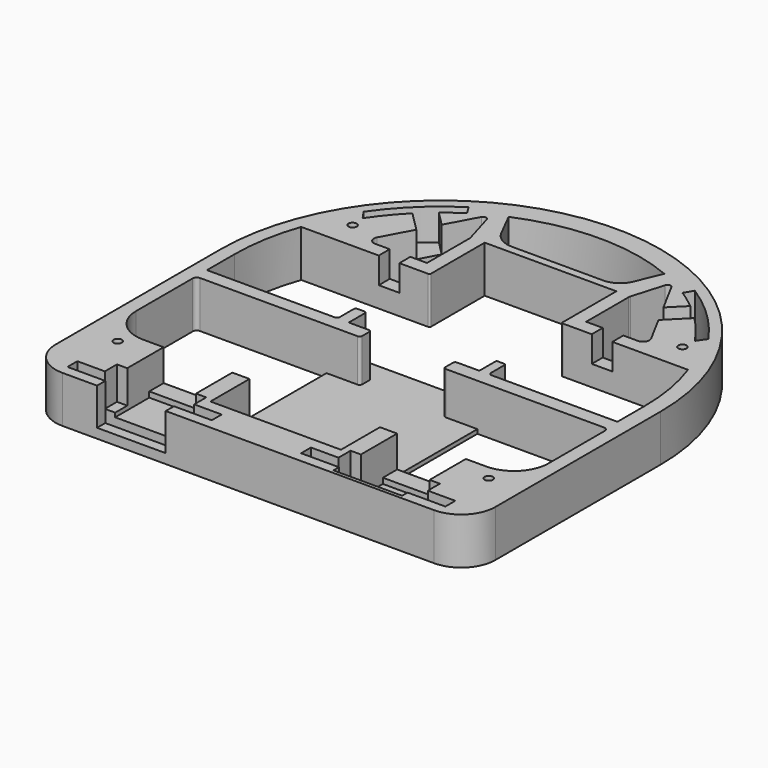
from build123d import *

# Parameters (mm, degrees)
BOX007_W               = 3
BOX007_H               = 6
BOX007_DEPTH           = 5
BOX008_W               = 3
BOX008_H               = 10
BOX008_DEPTH           = 10
BOX008_PLACEMENT_ANGLE = 45
BOX009_W               = 3
BOX009_H               = 10
BOX009_DEPTH           = 10
BOX009_PLACEMENT_ANGLE = 45
BOX006_W               = 3
BOX006_H               = 6
BOX006_DEPTH           = 5
BOX005_W               = 12
BOX005_H               = 0.5
BOX005_DEPTH           = 6.8
BOX004_W               = 22
BOX004_H               = 29
BOX004_DEPTH           = 0.6
BOX001_W               = 10
BOX001_H               = 15
BOX001_DEPTH           = 6
BOX002_W               = 10
BOX002_H               = 10
BOX002_DEPTH           = 6
BOX003_W               = 13
BOX003_H               = 4
BOX003_DEPTH           = 6
BOX_W                  = 21
BOX_H                  = 1.8
BOX_DEPTH              = 6.8
ARRAY_X_COUNT          = 2
ARRAY_X_PITCH          = 34
SKETCH001_R            = 0.6
EXTRUDE_DEPTH          = 6.8


with BuildPart() as wire02:
    # Box007 → Box007 (new body)
    with BuildSketch(Plane(origin=(14, 8, 3), x_dir=(1, 0, 0), z_dir=(0, 0, 1))):
        with Locations((1.5, 3)):
            Rectangle(BOX007_W, BOX007_H)
    extrude(amount=BOX007_DEPTH)


with BuildPart() as wire11:
    # Box008 → Box008 (new body)
    with BuildSketch(Plane.XY):
        with Locations((1.5, 5)):
            Rectangle(BOX008_W, BOX008_H)
    extrude(amount=BOX008_DEPTH)


with BuildPart() as wire11_1:
    # Box008 placement: moved
    add(wire11.part.moved(Location((-14, 14, 3))).rotate(Axis((-14, 14, 3), (0, 0, 1)), BOX008_PLACEMENT_ANGLE))


with BuildPart() as wire12:
    # Box009 → Box009 (new body)
    with BuildSketch(Plane.XY):
        with Locations((1.5, 5)):
            Rectangle(BOX009_W, BOX009_H)
    extrude(amount=BOX009_DEPTH)


with BuildPart() as wire12_1:
    # Box009 placement: moved
    add(wire12.part.moved(Location((12, 16, 3))).rotate(Axis((12, 16, 3), (0, 0, -1)), BOX009_PLACEMENT_ANGLE))


with BuildPart() as wires:
    # Box006 → Box006 (new body)
    with BuildSketch(Plane(origin=(-17, 8, 3), x_dir=(1, 0, 0), z_dir=(0, 0, 1))):
        with Locations((1.5, 3)):
            Rectangle(BOX006_W, BOX006_H)
    extrude(amount=BOX006_DEPTH)

    # Fusion004: union wire02, wire11, wire12
    add(wire02.part)
    add(wire11_1.part)
    add(wire12_1.part)


with BuildPart() as box005:
    # Box005 → Box005 (new body)
    with BuildSketch(Plane(origin=(11, -35, 0), x_dir=(1, 0, 0), z_dir=(0, 0, 1))):
        with Locations((6, 0.25)):
            Rectangle(BOX005_W, BOX005_H)
    extrude(amount=BOX005_DEPTH)


with BuildPart() as box004:
    # Box004 → Box004 (new body)
    with BuildSketch(Plane(origin=(-11, -31, 0), x_dir=(1, 0, 0), z_dir=(0, 0, 1))):
        with Locations((11, 14.5)):
            Rectangle(BOX004_W, BOX004_H)
    extrude(amount=BOX004_DEPTH)


with BuildPart() as obj1:
    # Box001 → Box001 (new body)
    with BuildSketch(Plane(origin=(-5, 0, 2.2), x_dir=(1, 0, 0), z_dir=(0, 0, 1))):
        with Locations((5, 7.5)):
            Rectangle(BOX001_W, BOX001_H)
    extrude(amount=BOX001_DEPTH)


with BuildPart() as pin:
    # Box002 → Box002 (new body)
    with BuildSketch(Plane(origin=(-5, -2, 1.4), x_dir=(1, 0, 0), z_dir=(0, 0, 1))):
        with Locations((5, 5)):
            Rectangle(BOX002_W, BOX002_H)
    extrude(amount=BOX002_DEPTH)


with BuildPart() as solder:
    # Box003 → Box003 (new body)
    with BuildSketch(Plane(origin=(-6.5, 0, 2), x_dir=(1, 0, 0), z_dir=(0, 0, 1))):
        with Locations((6.5, 2)):
            Rectangle(BOX003_W, BOX003_H)
    extrude(amount=BOX003_DEPTH)


with BuildPart() as array:
    # Box → Box (new body)
    with BuildSketch(Plane(origin=(-10.5, 0, 0), x_dir=(1, 0, 0), z_dir=(0, 0, 1))):
        with Locations((10.5, 0.9)):
            Rectangle(BOX_W, BOX_H)
    extrude(amount=BOX_DEPTH)

    # Fusion: union obj1, pin, solder
    add(obj1.part)
    add(pin.part)
    add(solder.part)


with BuildPart() as array_1:
    # Fusion placement: moved
    add(array.part.moved(Location((-17, -33.5, 0))))

    # Array X: Array ×2


with BuildPart() as array_2:
    add(array_1.part)
    with Locations(*[(i * ARRAY_X_PITCH, 0, 0) for i in range(1, ARRAY_X_COUNT)]):
        add(array_1.part)


with BuildPart() as cut001:
    # Sketch001 → Extrude (new body)
    with BuildSketch(Plane.XY):
        with BuildLine():
            ThreePointArc((32, 0), (0, 32), (-32, 0))
            Line((-32, 0), (-32, -30.035479))
            ThreePointArc((-32, -30.035479), (-30.545926, -33.545926), (-27.035479, -35))
            Line((-27.035479, -35), (27.049982, -35))
            ThreePointArc((27.049982, -35), (30.550173, -33.550173), (32, -30.049982))
            Line((32, -30.049982), (32, 0))
        make_face()
        with Locations((-27, -25)):
            Circle(SKETCH001_R, mode=Mode.SUBTRACT)
        with Locations((27, -25)):
            Circle(SKETCH001_R, mode=Mode.SUBTRACT)
        with Locations((-24, 14)):
            Circle(SKETCH001_R, mode=Mode.SUBTRACT)
        with Locations((24, 14)):
            Circle(SKETCH001_R, mode=Mode.SUBTRACT)
        with BuildLine():
            Line((-28.283536, 10.002079), (-11.283536, 10.002079))
            Line((-9.821695, 10.002079), (-11.283536, 10.002079))
            ThreePointArc((-9.821695, 10.002079), (-9.651432, 10.072604), (-9.580907, 10.242867))
            Line((-9.580907, 20.003923), (-9.580907, 10.242867))
            Line((-9.580907, 20.003923), (9.580907, 20.003923))
            Line((9.580907, 20.003923), (9.580907, 10.20069))
            ThreePointArc((9.580907, 10.20069), (9.639688, 10.058781), (9.781597, 10))
            Line((9.781597, 10), (10.999997, 10))
            Line((10.999997, 10), (27.999997, 10))
            ThreePointArc((29.732135, 0), (29.2959, 5.074453), (27.999997, 10))
            Line((29.732135, -5), (29.732135, 0))
            Line((29.732135, -5), (11.449554, -5))
            ThreePointArc((10.998979, -4.549425), (11.130949, -4.86803), (11.449554, -5))
            Line((10.998979, -2.047611), (10.998979, -4.549425))
            ThreePointArc((10.998979, -2.047611), (10.951968, -1.934117), (10.838474, -1.887106))
            Line((9.826898, -1.887106), (10.838474, -1.887106))
            ThreePointArc((9.826898, -1.887106), (9.69096, -1.943413), (9.634653, -2.079351))
            Line((9.634653, -4.996077), (9.634653, -2.079351))
            Line((9.634653, -4.996077), (6.387418, -4.996077))
            ThreePointArc((6.387418, -4.996077), (6.154439, -5.09258), (6.057936, -5.325559))
            Line((6.057936, -5.325559), (6.057936, -6.717126))
            ThreePointArc((6.057936, -6.717126), (6.15523, -6.952016), (6.390121, -7.049311))
            Line((6.390121, -7.049311), (29.401567, -7.049311))
            ThreePointArc((30.016101, -7.663845), (29.836108, -7.229304), (29.401567, -7.049311))
            Line((30.016101, -7.663845), (30.016101, -11.257143))
            Line((30.016101, -17.879205), (30.016101, -11.257143))
            ThreePointArc((24.990135, -22.90517), (28.544029, -21.433099), (30.016101, -17.879205))
            Line((24.990135, -22.90517), (9.5, -22.90517))
            Line((9.5, -30), (9.5, -22.90517))
            Line((9.5, -30), (-9.5, -30))
            Line((-9.5, -30), (-9.5, -22.889064))
            Line((-24.982737, -22.889064), (-9.5, -22.889064))
            ThreePointArc((-30, -17.879205), (-28.530028, -21.424329), (-24.982737, -22.889064))
            Line((-30, -11.257325), (-30, -17.879205))
            Line((-30, -11.257325), (-30, -7.602077))
            ThreePointArc((-29.400597, -7.002674), (-29.824439, -7.178235), (-30, -7.602077))
            Line((-29.400597, -7.002674), (-6.477289, -7.002674))
            ThreePointArc((-6.477289, -7.002674), (-6.211158, -6.892439), (-6.100923, -6.626308))
            Line((-6.100923, -5.308623), (-6.100923, -6.626308))
            ThreePointArc((-6.100923, -5.308623), (-6.191681, -5.089514), (-6.41079, -4.998756))
            Line((-9.365347, -4.998756), (-6.41079, -4.998756))
            Line((-9.365347, -2.082029), (-9.365347, -4.998756))
            ThreePointArc((-9.365347, -2.082029), (-9.461983, -1.848728), (-9.695285, -1.752091))
            Line((-10.706861, -1.752091), (-9.695285, -1.752091))
            ThreePointArc((-10.706861, -1.752091), (-10.915611, -1.838558), (-11.002079, -2.047309))
            Line((-11.002079, -4.549979), (-11.002079, -2.047309))
            ThreePointArc((-11.450021, -4.997921), (-11.133278, -4.866722), (-11.002079, -4.549979))
            Line((-11.450021, -4.997921), (-30, -4.997921))
            Line((-30, -4.997921), (-30, 0))
            ThreePointArc((-28.283536, 10.002079), (-29.56777, 5.074146), (-30, 0))
        make_face(mode=Mode.SUBTRACT)
        with BuildLine():
            ThreePointArc((11.150322, 26.770699), (-0.151775, 28.999603), (-11.429923, 26.652521))
            Line((-9.58106, 23.01514), (-11.429923, 26.652521))
            ThreePointArc((-9.58106, 23.01514), (-8.322568, 21.651708), (-6.53689, 21.147623))
            Line((-6.53689, 21.147623), (6.776723, 21.147623))
            ThreePointArc((6.776723, 21.147623), (8.461354, 21.657225), (9.58106, 23.01514))
            Line((11.150322, 26.770699), (9.58106, 23.01514))
        make_face(mode=Mode.SUBTRACT)
        with BuildLine():
            ThreePointArc((-16.458256, 25.678314), (-21.184389, 21.942462), (-25.084031, 17.350544))
            Line((-24.167702, 16.028793), (-25.084031, 17.350544))
            ThreePointArc((-15.677322, 24.397163), (-20.357158, 20.653961), (-24.167702, 16.028793))
            Line((-15.677322, 24.397163), (-16.458256, 25.678314))
        make_face(mode=Mode.SUBTRACT)
        with BuildLine():
            ThreePointArc((25.084031, 17.350544), (21.184389, 21.942462), (16.458256, 25.678314))
            Line((16.458256, 25.678314), (15.677322, 24.397163))
            ThreePointArc((24.167702, 16.028793), (20.357158, 20.653961), (15.677322, 24.397163))
            Line((25.084031, 17.350544), (24.167702, 16.028793))
        make_face(mode=Mode.SUBTRACT)
        with BuildLine():
            Line((-11.580907, 19.737881), (-11.580907, 12))
            Line((-19.119635, 12), (-11.580907, 12))
            ThreePointArc((-19.940526, 13.375741), (-19.920653, 12.454819), (-19.119635, 12))
            Line((-19.940526, 13.375741), (-13.824918, 24.709109))
            ThreePointArc((-12.975828, 24.620182), (-13.370592, 24.948999), (-13.824918, 24.709109))
            Line((-12.975828, 24.620182), (-11.620684, 20.014015))
            ThreePointArc((-11.580907, 19.737881), (-11.590902, 19.877373), (-11.620684, 20.014015))
        make_face(mode=Mode.SUBTRACT)
        with BuildLine():
            Line((12.975828, 24.620182), (11.620684, 20.014015))
            ThreePointArc((11.620684, 20.014015), (11.590902, 19.877373), (11.580907, 19.737881))
            Line((11.580907, 19.737881), (11.580907, 12))
            Line((19.119635, 12), (11.580907, 12))
            ThreePointArc((19.119635, 12), (19.920653, 12.454819), (19.940526, 13.375741))
            Line((13.824918, 24.709109), (19.940526, 13.375741))
            ThreePointArc((13.824918, 24.709109), (13.370592, 24.948999), (12.975828, 24.620182))
        make_face(mode=Mode.SUBTRACT)
    extrude(amount=EXTRUDE_DEPTH)

    # Cut: cut Array
    add(array_2.part, mode=Mode.SUBTRACT)

    # Fusion001: union Box004
    add(box004.part)

    # Fusion003: union Box005
    add(box005.part)

    # Cut001: cut wires
    add(wires.part, mode=Mode.SUBTRACT)


solid = cut001.part
